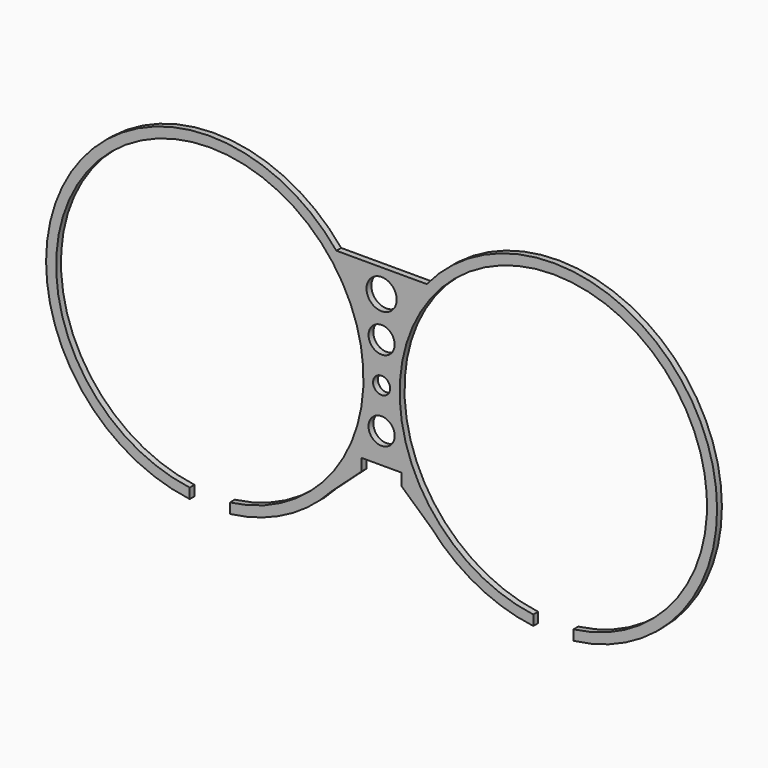
from build123d import *

# Parameters (mm, degrees)
F0_R     = 6.5
F0_R_2   = 4.25
F0_R_3   = 7.5
F1_DEPTH = 3


with BuildPart() as f1:
    # F0 (on Front) → F1 (new body)
    with BuildSketch(Plane.XZ):
        with BuildLine():
            ThreePointArc((-95.5, -75.843589), (-85.5, 76.5), (-75.5, -75.843589))
            Line((-75.5, -75.843589), (-75.5, -80.884176))
            ThreePointArc((-75.5, -80.884176), (-47.768771, -72.239908), (-24.830423, -54.419228))
            Line((-24.830423, -54.419228), (-10, -41.000638))
            Line((-10, -41.000638), (-10, -35.000638))
            Line((-10, -35.000638), (10, -35.000638))
            Line((10, -35.000638), (10, -41.000638))
            Line((10, -41.000638), (24.830423, -54.419228))
            ThreePointArc((24.830423, -54.419228), (47.768771, -72.239908), (75.5, -80.884176))
            Line((75.5, -80.884176), (75.5, -75.843589))
            ThreePointArc((75.5, -75.843589), (85.5, 76.5), (95.5, -75.843589))
            Line((95.5, -75.843589), (95.5, -80.884176))
            ThreePointArc((95.5, -80.884176), (156.89413, 39.308119), (22.5, 51.703482))
            Line((22.5, 51.703482), (-22.5, 51.703482))
            ThreePointArc((-22.5, 51.703482), (-156.89413, 39.308119), (-95.5, -80.884176))
            Line((-95.5, -80.884176), (-95.5, -75.843589))
        make_face()
        with Locations((0, -20)):
            Circle(F0_R, mode=Mode.SUBTRACT)
        Circle(F0_R_2, mode=Mode.SUBTRACT)
        with Locations((0, 20)):
            Circle(F0_R, mode=Mode.SUBTRACT)
        with Locations((0, 40)):
            Circle(F0_R_3, mode=Mode.SUBTRACT)
    extrude(amount=F1_DEPTH)


solid = f1.part
